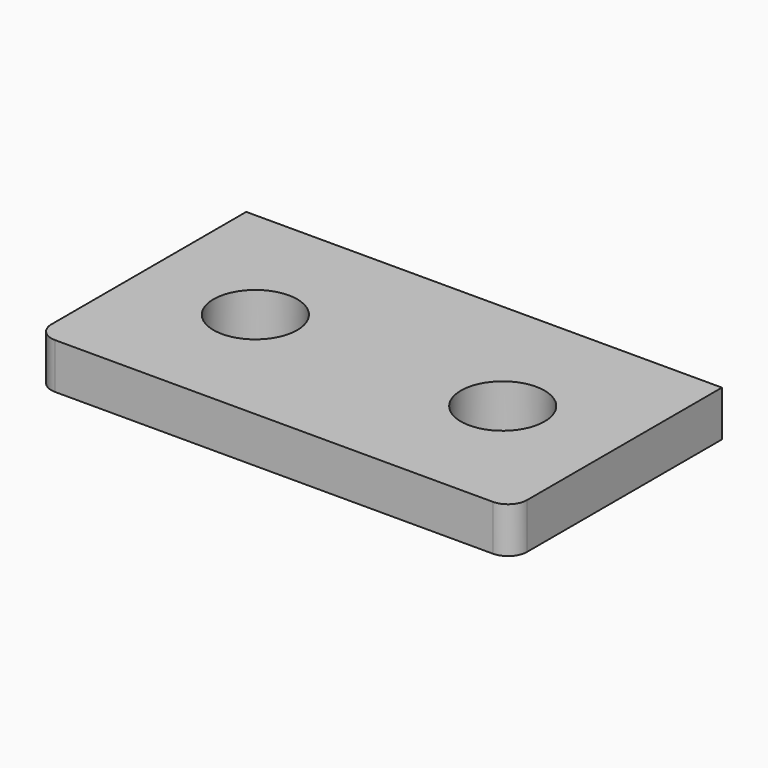
from build123d import *

# Parameters (mm, degrees)
F0_R     = 11
F1_DEPTH = 12


with BuildPart() as f1:
    # F0 (on Top) → F1 (new body)
    with BuildSketch(Plane.XY):
        with BuildLine():
            ThreePointArc((-62.5, -29.5), (-61.035534, -33.035534), (-57.5, -34.5))
            Line((-57.5, -34.5), (57.5, -34.5))
            ThreePointArc((57.5, -34.5), (61.035534, -33.035534), (62.5, -29.5))
            Line((62.5, -29.5), (62.5, 34.5))
            Line((62.5, 34.5), (-62.5, 34.5))
            Line((-62.5, 34.5), (-62.5, -29.5))
        make_face()
        with Locations((-32.5, 0)):
            Circle(F0_R, mode=Mode.SUBTRACT)
        with Locations((32.5, 0)):
            Circle(F0_R, mode=Mode.SUBTRACT)
    extrude(amount=F1_DEPTH)


solid = f1.part
